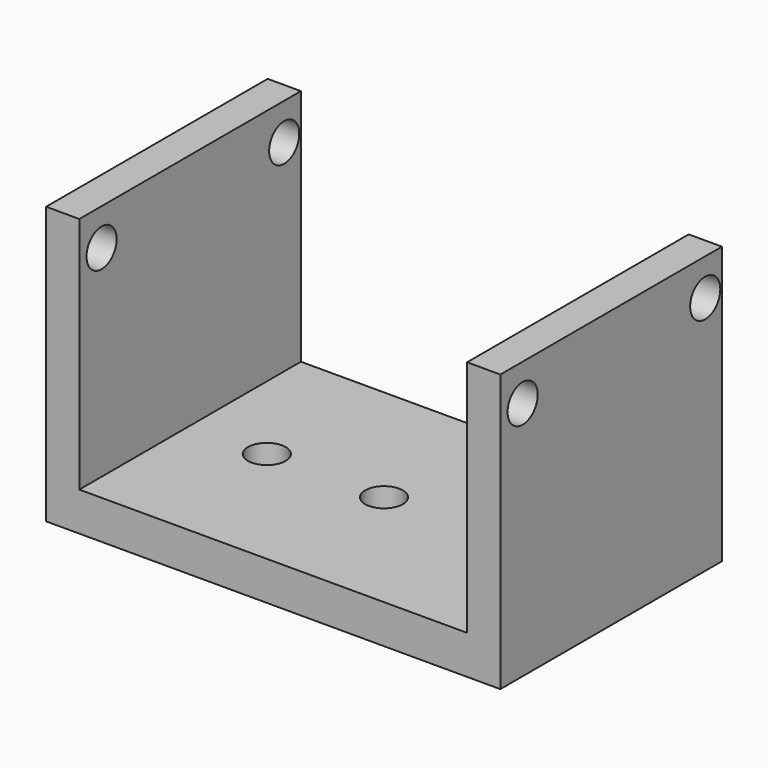
from build123d import *

# Parameters (mm, degrees)
F0_W     = 35
F0_H     = 25
F2_DEPTH = 3.5
F0_W_2   = 3
F3_DEPTH = 25
F4_DEPTH = 25
F5_D     = 3.4
F5_DEPTH = 20.501
F6_D     = 3.4
F6_DEPTH = 20.501
F7_D     = 3.4


with BuildPart() as f2:
    # F0 (on Top) → F2 (new body)
    with BuildSketch(Plane.XY):
        Rectangle(F0_W, F0_H)
        with BuildLine():
            ThreePointArc((-12.275, 0), (-10.575, 1.7), (-8.875, 0))
            ThreePointArc((-8.875, 0), (-10.575, -1.7), (-12.275, 0))
        make_face(mode=Mode.SUBTRACT)
        with BuildLine():
            ThreePointArc((1.7, 0), (0, -1.7), (-1.7, 0))
            ThreePointArc((-1.7, 0), (0, 1.7), (1.7, 0))
        make_face(mode=Mode.SUBTRACT)
        with BuildLine():
            ThreePointArc((12.275, 0), (10.575, -1.7), (8.875, 0))
            ThreePointArc((8.875, 0), (10.575, 1.7), (12.275, 0))
        make_face(mode=Mode.SUBTRACT)
    extrude(amount=F2_DEPTH)

    # F0 (on Top) → F3 (join)
    with BuildSketch(Plane.XY):
        with Locations((-19, 0)):
            Rectangle(F0_W_2, F0_H)
    extrude(amount=F3_DEPTH)

    # F0 (on Top) → F4 (join)
    with BuildSketch(Plane.XY):
        with Locations((19, 0)):
            Rectangle(F0_W_2, F0_H)
    extrude(amount=F4_DEPTH)

    # F5 (through all, one way)
    with BuildSketch(Plane(origin=(0, 0, 0), x_dir=(0, 1, 0), z_dir=(-1, 0, 0))):
        with Locations((-9.9837460197, -21.689)):
            Circle(F5_D / 2)
    extrude(amount=-F5_DEPTH, mode=Mode.SUBTRACT)

    # F6 (through all, one way)
    with BuildSketch(Plane(origin=(0, 0, 0), x_dir=(0, 1, 0), z_dir=(-1, 0, 0))):
        with Locations((10.6162539803, -21.689)):
            Circle(F6_D / 2)
    extrude(amount=-F6_DEPTH, mode=Mode.SUBTRACT)

    # F7 (through all)
    with Locations(Plane.YZ):
        with Locations((-9.9837460197, 21.689), (10.6162539803, 21.689)):
            Hole(F7_D / 2)


solid = f2.part
